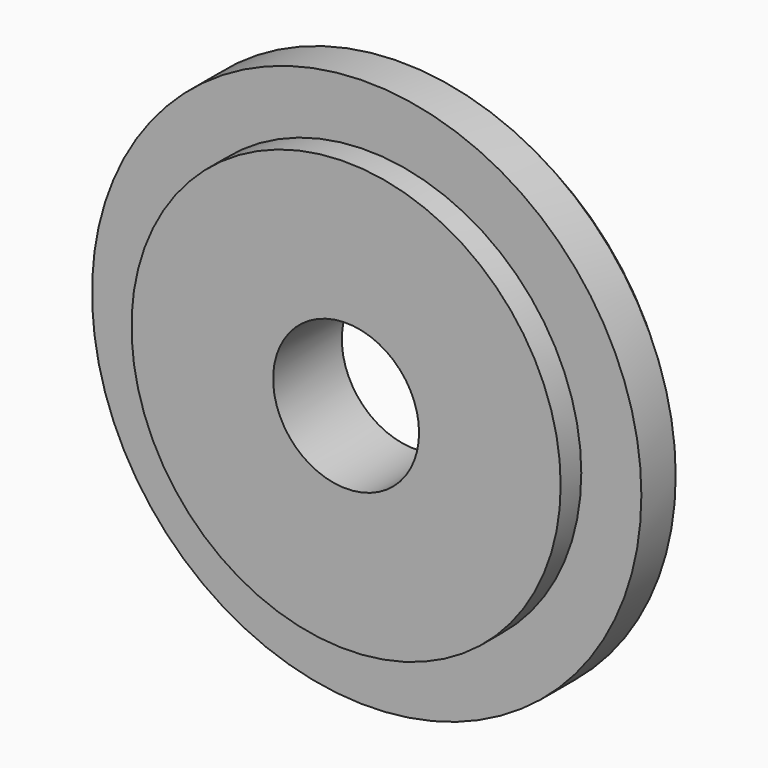
from build123d import *

# Parameters (mm, degrees)
F0_R     = 16
F1_DEPTH = 5
F2_R     = 23.291419
F2_R_2   = 12.5
F3_DEPTH = 1.5
F4_SIZE  = 1
F5_R     = 4.25
F6_DEPTH = 25


with BuildPart() as f1:
    # F0 (on Front) → F1 (new body)
    with BuildSketch(Plane.XZ):
        Circle(F0_R)
    extrude(amount=F1_DEPTH)

    # F2 (on face) → F3 (cut)
    with BuildSketch(Plane.XZ.offset(5)):
        Circle(F2_R)
        Circle(F2_R_2, mode=Mode.SUBTRACT)
    extrude(amount=-F3_DEPTH, mode=Mode.SUBTRACT)

    # F4
    f4_edges = [f1.edges().sort_by_distance(p)[0] for p in [
        (-16, 0, 0),
    ]]
    chamfer(f4_edges, length=F4_SIZE)

    # F5 (on face) → F6 (cut)
    with BuildSketch(Plane.XZ.offset(5)):
        Circle(F5_R)
    extrude(amount=-F6_DEPTH, mode=Mode.SUBTRACT)


solid = f1.part
